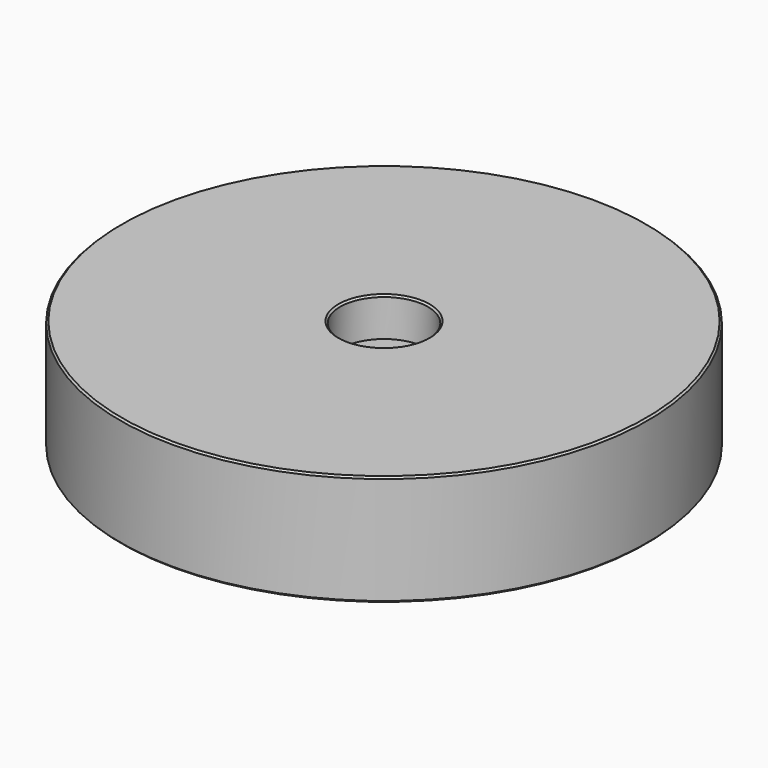
from build123d import *

# Parameters (mm, degrees)
F2_R    = 0.0508
F3_SIZE = 0.127


with BuildPart() as f1:
    # F0 (on Right) → F1 (revolve)
    with BuildSketch(Plane.YZ):
        Polygon((-3.175, -2.54), (0, -2.54), (0, 0), (0, 5.206), (-3.175, 5.206), (-3.175, 8), (-19.05, 8), (-19.05, 0), (-3.175, 0), align=None)
    revolve(axis=Axis((0, 0, 2.603), (0, 0, -1)))

    # F2
    f2_edges = [f1.edges().sort_by_distance(p)[0] for p in [
        (0, 3.175, 0),
    ]]
    fillet(f2_edges, radius=F2_R)

    # F3
    f3_edges = [f1.edges().sort_by_distance(p)[0] for p in [
        (0, 19.05, 0),
        (0, 19.05, 8),
        (0, 3.175, 8),
    ]]
    chamfer(f3_edges, length=F3_SIZE)


solid = f1.part
